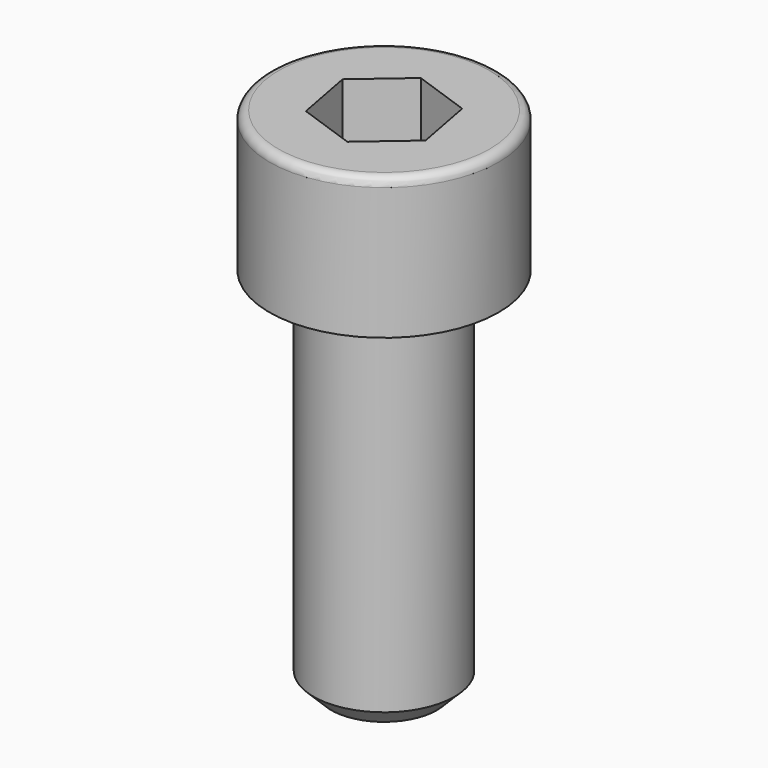
from build123d import *

# Parameters (mm, degrees)
F0_R     = 6.5
F0_R_2   = 4
F1_DEPTH = 4
F2_DEPTH = 4
F3_DEPTH = 25
F4_R     = 0.5
F5_SIZE  = 1


with BuildPart() as f1:
    # F0 (on Top) → F1 (new body)
    with BuildSketch(Plane.XY):
        Circle(F0_R)
        Circle(F0_R_2, mode=Mode.SUBTRACT)
        Circle(F0_R_2)
        Polygon((-2.6272431226, -2.2577851038), (-3.2689208174, 1.1463667342), (-0.6416776948, 3.404151838), (2.6272431226, 2.2577851038), (3.2689208174, -1.1463667342), (0.6416776948, -3.404151838), align=None, mode=Mode.SUBTRACT)
        Polygon((-0.6416776948, 3.404151838), (-3.2689208174, 1.1463667342), (-2.6272431226, -2.2577851038), (0.6416776948, -3.404151838), (3.2689208174, -1.1463667342), (2.6272431226, 2.2577851038), align=None)
    extrude(amount=-F1_DEPTH)

    # F0 (on Top) → F2 (join)
    with BuildSketch(Plane.XY):
        Circle(F0_R)
        Circle(F0_R_2, mode=Mode.SUBTRACT)
        Circle(F0_R_2)
        Polygon((-2.6272431226, -2.2577851038), (-3.2689208174, 1.1463667342), (-0.6416776948, 3.404151838), (2.6272431226, 2.2577851038), (3.2689208174, -1.1463667342), (0.6416776948, -3.404151838), align=None, mode=Mode.SUBTRACT)
    extrude(amount=F2_DEPTH)

    # F0 (on Top) → F3 (join)
    with BuildSketch(Plane.XY):
        Circle(F0_R_2)
        Polygon((-2.6272431226, -2.2577851038), (-3.2689208174, 1.1463667342), (-0.6416776948, 3.404151838), (2.6272431226, 2.2577851038), (3.2689208174, -1.1463667342), (0.6416776948, -3.404151838), align=None, mode=Mode.SUBTRACT)
        Polygon((-0.6416776948, 3.404151838), (-3.2689208174, 1.1463667342), (-2.6272431226, -2.2577851038), (0.6416776948, -3.404151838), (3.2689208174, -1.1463667342), (2.6272431226, 2.2577851038), align=None)
    extrude(amount=-F3_DEPTH)

    # F4
    f4_edges = [f1.edges().sort_by_distance(p)[0] for p in [
        (-6.5, 0, 4),
    ]]
    fillet(f4_edges, radius=F4_R)

    # F5
    f5_edges = [f1.edges().sort_by_distance(p)[0] for p in [
        (-4, 0, -25),
    ]]
    chamfer(f5_edges, length=F5_SIZE)


solid = f1.part
